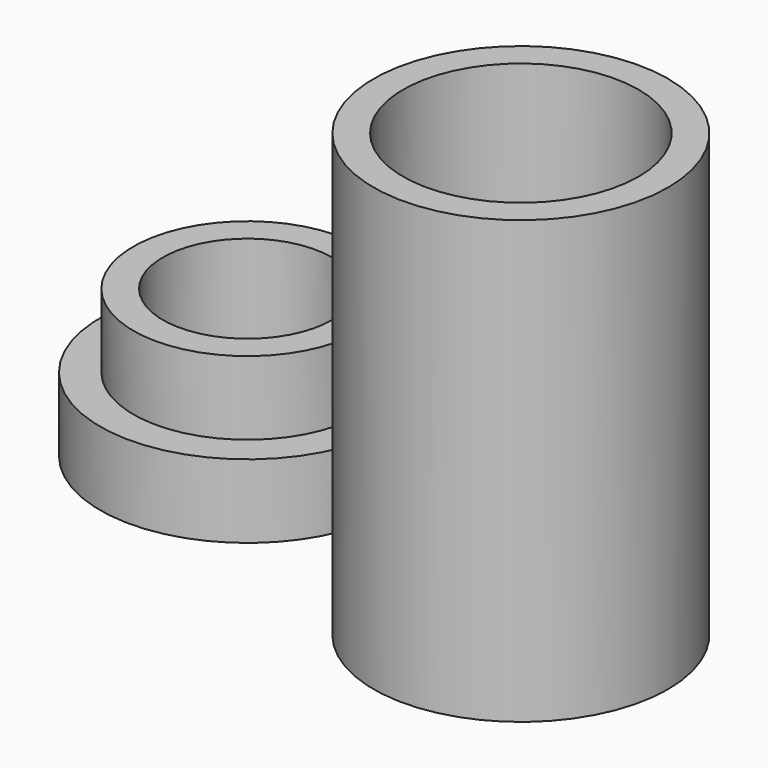
from build123d import *

# Parameters (mm, degrees)
F0_R     = 10
F1_DEPTH = 30
F2_T     = -2
F3_R     = 7.75
F4_DEPTH = 10
F3_R_2   = 10
F5_DEPTH = 5
F6_T     = -2


with BuildPart() as f1:
    # F0 (on Top) → F1 (new body)
    with BuildSketch(Plane.XY):
        Circle(F0_R)
    extrude(amount=F1_DEPTH)

    # F2
    f2_openings = [f1.faces().sort_by_distance(p)[0] for p in [
        (0, 0, 30),
    ]]
    offset(amount=F2_T, openings=f2_openings)


with BuildPart() as f4:
    # F3 (on Top) → F4 (new body)
    with BuildSketch(Plane.XY):
        with Locations((-24.1619775113, 6.9936937847)):
            Circle(F3_R)
    extrude(amount=F4_DEPTH)

    # F3 (on Top) → F5 (join)
    with BuildSketch(Plane.XY):
        with Locations((-24.1619775113, 6.9936937847)):
            Circle(F3_R_2)
        with Locations((-24.1619775113, 6.9936937847)):
            Circle(F3_R, mode=Mode.SUBTRACT)
    extrude(amount=F5_DEPTH)

    # F6
    f6_openings = [f4.faces().sort_by_distance(p)[0] for p in [
        (-24.161978, 6.993694, 10),
    ]]
    offset(amount=F6_T, openings=f6_openings, kind=Kind.INTERSECTION)


solid = Compound([f1.part, f4.part])
